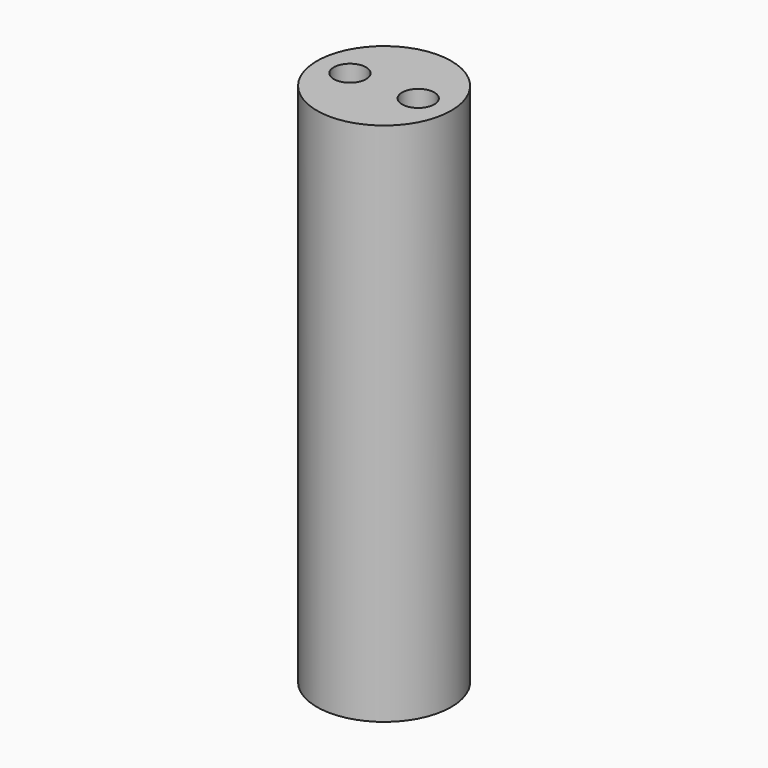
from build123d import *

# Parameters (mm, degrees)
SKETCH_R     = 2.5
PAD_DEPTH    = 19.53
SKETCH001_R  = 0.6
POCKET_DEPTH = 19.531


with BuildPart() as part:
    # Sketch → Pad (new body)
    with BuildSketch(Plane.XY):
        Circle(SKETCH_R)
    extrude(amount=PAD_DEPTH)

    # Sketch001 (on Face3 of Pad) → Pocket (cut, through all)
    with BuildSketch(Plane.XY.offset(19.53)):
        with Locations((-1.27, 0)):
            Circle(SKETCH001_R)
        with Locations((1.27, 0)):
            Circle(SKETCH001_R)
    extrude(amount=-POCKET_DEPTH, mode=Mode.SUBTRACT)


solid = part.part
